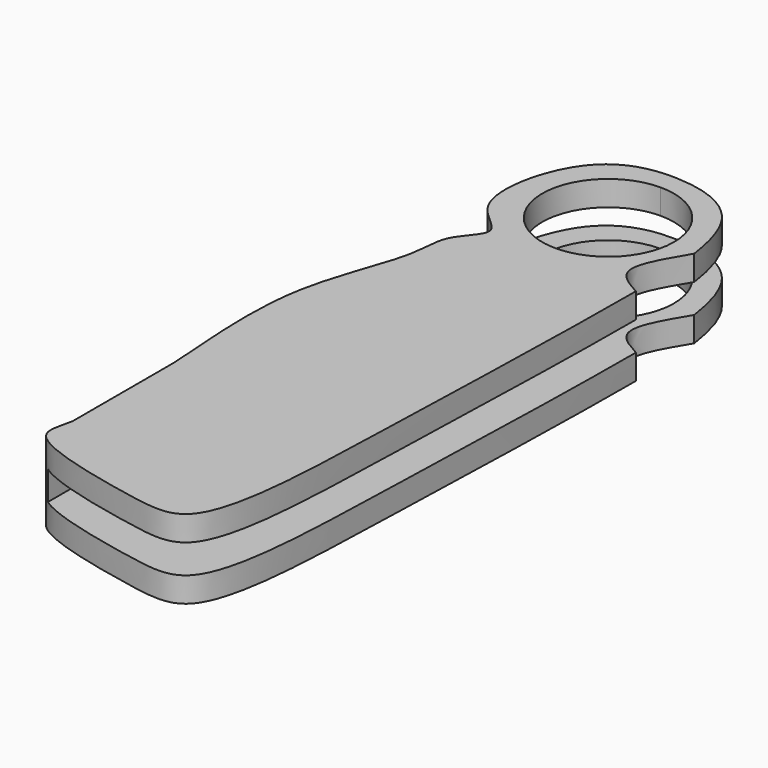
from build123d import *

# Parameters (mm, degrees)
F0_W     = 22.86
F0_H     = 72.6836025715
F1_DEPTH = 3.81
F2_DEPTH = 3.81
F3_W     = 19.2773731395
F3_H     = 2.794
F3_W_2   = 1.1942089535
F4_DEPTH = 2540
F6_DEPTH = 25.4
F8_DEPTH = 25.4


with BuildPart() as f1:
    # F0 (on Top) → F1 (new body)
    with BuildSketch(Plane.XY):
        Rectangle(F0_W, F0_H)
    extrude(amount=F1_DEPTH)

    # F2 (add): a face of the model
    f2_faces = [f1.faces().sort_by_distance(p)[0] for p in [
        (0, 0, 0),
    ]]
    extrude(f2_faces, amount=F2_DEPTH)

    # F3 (on face) → F4 (cut)
    with BuildSketch(Plane.XZ.offset(36.3418012857)):
        with Locations((-0.5971044767, 0)):
            Rectangle(F3_W, F3_H)
        with Locations((9.6386865698, 0)):
            Rectangle(F3_W_2, F3_H)
        with Locations((10.8328955233, 0)):
            Rectangle(F3_W_2, F3_H)
    extrude(amount=-F4_DEPTH, mode=Mode.SUBTRACT)

    # F5 (on face) → F6 (cut)
    with BuildSketch(Plane.XY.offset(3.81)):
        with BuildLine():
            ThreePointArc((6.35, 23.6418012857), (4.4901280605, 28.1319293463), (0, 29.9918012857))
            ThreePointArc((0, 29.9918012857), (-4.4901280605, 19.1516732252), (6.35, 23.6418012857))
        make_face()
    extrude(amount=-F6_DEPTH, mode=Mode.SUBTRACT)

    # F7 (on face) → F8 (cut)
    with BuildSketch(Plane.XY.offset(3.81)):
        with BuildLine():
            Line((-10.7726650313, -30.6623503566), (-10.7726650313, -36.3418012857))
            Line((-10.7726650313, -36.3418012857), (11.43, -36.3418012857))
            Line((11.43, -36.3418012857), (11.43, 36.3418012857))
            Line((11.43, 36.3418012857), (-10.7726650313, 36.3418012857))
            Line((-10.7726650313, 36.3418012857), (-10.7726650313, 0))
            add(Edge.make_bspline(
                [(-10.7726650313, 0), (-10.0561823146, 3.8537307671), (-7.3854445938, 9.4837846118), (-7.9821923417, 13.6713152873), (-4.1802121724, 16.7171994091), (-10.3046094958, 19.1639749423), (-7.7542534547, 30.7932144581), (-2.4943395351, 32.0154624401), (0, 31.9283567369)],
                knots=[0.6786869049, 0.6786869049, 0.6786869049, 0.6786869049, 0.7480742957, 0.7910414841, 0.8294660659, 0.8744687616, 0.9422005158, 1, 1, 1, 1], degree=3))
            add(Edge.make_bspline(
                [(0, 31.9283567369), (2.538676279, 31.8397027348), (6.8842063307, 30.5730937291), (8.3825966286, 25.5246626216), (8.7168614845, 23.137632218)],
                knots=[0, 0, 0, 0, 0.0588268668, 0.0978036857, 0.0978036857, 0.0978036857, 0.0978036857], degree=3))
            add(Edge.make_bspline(
                [(8.7168614845, 23.137632218), (9.0313844447, 20.8915813529), (9.1131665077, 18.3134074314), (9.119912963, 15.5909694365)],
                knots=[0.0978036857, 0.0978036857, 0.0978036857, 0.0978036857, 0.1344785089, 0.1344785089, 0.1344785089, 0.1344785089], degree=3))
            add(Edge.make_bspline(
                [(9.119912963, 15.5909694365), (9.1219812689, 14.7563334196), (9.0660607404, 5.240023931), (8.418012634, -13.1414206776), (7.7984654732, -35.5067072094), (0.1786288722, -34.3293640897), (-9.3990604323, -32.2328312965), (-10.7726650313, -30.6623503566)],
                knots=[0.1344785089, 0.1344785089, 0.1344785089, 0.1344785089, 0.1457221547, 0.2606263592, 0.3544407325, 0.4065266361, 0.4795072869, 0.4795072869, 0.4795072869, 0.4795072869], degree=3))
        make_face()
        with BuildLine():
            Line((-11.43, -36.3418012857), (-10.7726650313, -36.3418012857))
            Line((-10.7726650313, -36.3418012857), (-10.7726650313, -30.6623503566))
            add(Edge.make_bspline(
                [(-10.7726650313, -30.6623503566), (-11.5025836004, -29.8278138376), (-11.0422071141, -28.895270325), (-10.7726650313, -27.4610593915)],
                knots=[0.4795072869, 0.4795072869, 0.4795072869, 0.4795072869, 0.5182884124, 0.5182884124, 0.5182884124, 0.5182884124], degree=3))
            Line((-10.7726650313, -27.4610593915), (-10.7726650313, -15.207849443))
            add(Edge.make_bspline(
                [(-10.7726650313, -15.207849443), (-11.1338892735, -9.9481509784), (-11.6454693721, -4.6945346538), (-10.7726650313, 0)],
                knots=[0.5941606288, 0.5941606288, 0.5941606288, 0.5941606288, 0.6786869049, 0.6786869049, 0.6786869049, 0.6786869049], degree=3))
            Line((-10.7726650313, 0), (-10.7726650313, 36.3418012857))
            Line((-10.7726650313, 36.3418012857), (-11.43, 36.3418012857))
            Line((-11.43, 36.3418012857), (-11.43, -36.3418012857))
        make_face()
        with BuildLine():
            add(Edge.make_bspline(
                [(8.7168614845, 23.137632218), (7.5442994191, 21.1594603912), (5.3764154536, 17.6455008149), (8.0049156819, 16.2152912696), (9.119912963, 15.5909694365)],
                knots=[0, 0, 0, 0, 0.5650303317, 1, 1, 1, 1], degree=3))
            add(Edge.make_bspline(
                [(8.7168614845, 23.137632218), (9.0313844447, 20.8915813529), (9.1131665077, 18.3134074314), (9.119912963, 15.5909694365)],
                knots=[0.0978036857, 0.0978036857, 0.0978036857, 0.0978036857, 0.1344785089, 0.1344785089, 0.1344785089, 0.1344785089], degree=3))
        make_face()
    extrude(amount=-F8_DEPTH, mode=Mode.SUBTRACT)


solid = f1.part
